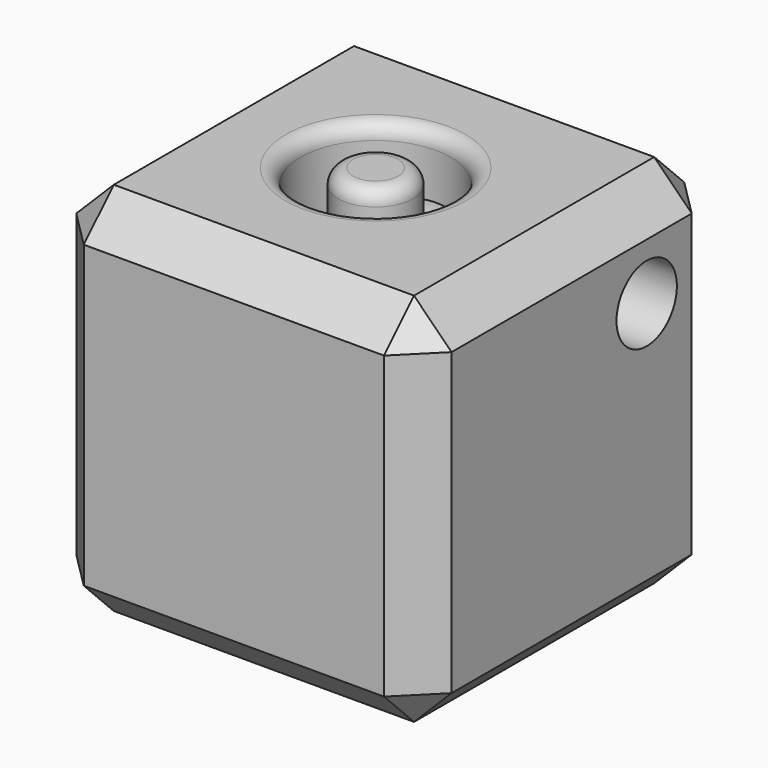
from build123d import *

# Parameters (mm, degrees)
F0_W     = 25.4
F0_H     = 25.4
F1_DEPTH = 25.4
F2_R     = 5.08
F2_R_2   = 2.54
F3_DEPTH = 6.35
F4_R     = 1.016
F5_SIZE  = 2.54
F7_D     = 5.1054


with BuildPart() as f1:
    # F0 (on Top) → F1 (new body)
    with BuildSketch(Plane.XY):
        with Locations((12.7, 12.7)):
            Rectangle(F0_W, F0_H)
    extrude(amount=F1_DEPTH)

    # F2 (on face) → F3 (cut)
    with BuildSketch(Plane.XY.offset(25.4)):
        with Locations((12.1342176571, 12.7)):
            Circle(F2_R)
        with Locations((12.1342176571, 12.7)):
            Circle(F2_R_2, mode=Mode.SUBTRACT)
    extrude(amount=-F3_DEPTH, mode=Mode.SUBTRACT)

    # F4
    f4_edges = [f1.edges().sort_by_distance(p)[0] for p in [
        (9.594218, 12.7, 25.4),
        (17.214218, 12.7, 22.225),
        (7.054218, 12.7, 25.4),
        (7.054218, 12.7, 19.05),
    ]]
    fillet(f4_edges, radius=F4_R)

    # F5
    f5_edges = [f1.edges().sort_by_distance(p)[0] for p in [
        (25.4, 12.7, 25.4),
        (25.4, 25.4, 12.7),
        (0, 25.4, 12.7),
        (12.7, 25.4, 0),
        (12.7, 25.4, 25.4),
        (12.7, 0, 25.4),
        (0, 12.7, 25.4),
        (0, 0, 12.7),
        (25.4, 0, 12.7),
        (12.7, 0, 0),
        (0, 12.7, 0),
        (25.4, 12.7, 0),
    ]]
    chamfer(f5_edges, length=F5_SIZE)

    # F7 (through all)
    with Locations(Plane.YZ.offset(25.4)):
        with Locations((19.05, 19.05)):
            Hole(F7_D / 2)


solid = f1.part
